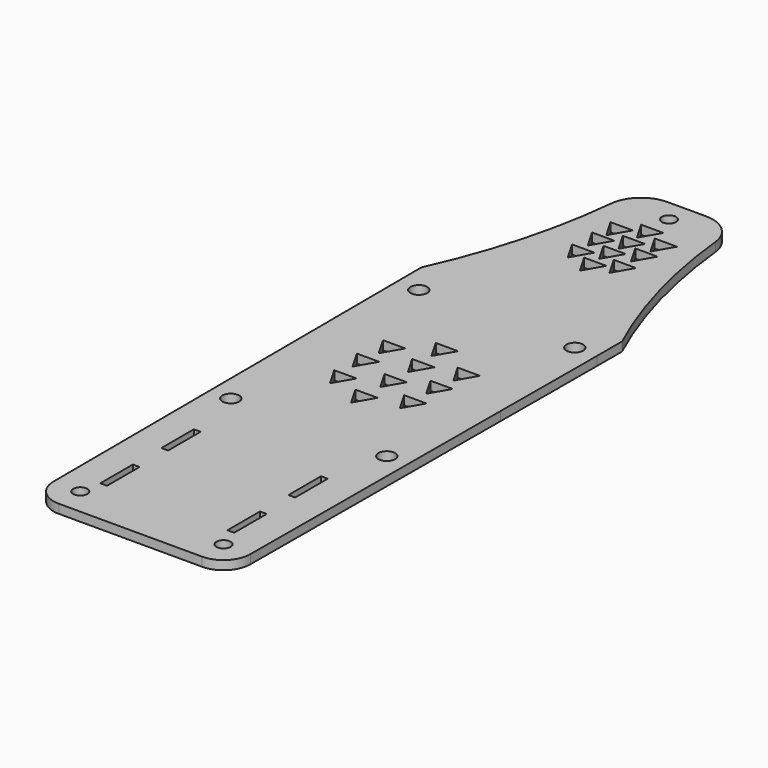
from build123d import *

# Parameters (mm, degrees)
F0_R     = 1.5875
F0_W     = 1.5125
F0_H     = 9.125
F0_R_2   = 1.875
F1_DEPTH = 2


with BuildPart() as f1:
    # F0 (on Top) → F1 (new body)
    with BuildSketch(Plane.XY):
        with BuildLine():
            Line((-8.3077662669, 82.3469734799), (-12.6567107354, 82.3469734799))
            Line((-12.6567107354, 82.3469734799), (-17.0056552038, 82.3469734799))
            ThreePointArc((-17.0056552038, 82.3469734799), (-21.9425943503, 80.450262999), (-24.3396503152, 75.7359230148))
            ThreePointArc((-24.3396503152, 75.7359230148), (-28.1319401622, 55.4595641269), (-35.1567107354, 36.0645959539))
            Line((-35.1567107354, 36.0645959539), (-35.1567107354, 35.3542267511))
            Line((-35.1567107354, 35.3542267511), (-34.7306092033, -67.6578189428))
            ThreePointArc((-34.7306092033, -67.6578189428), (-32.9732498904, -71.9004596299), (-28.7306092033, -73.6578189428))
            Line((-28.7306092033, -73.6578189428), (3.4171877326, -73.6578189428))
            ThreePointArc((3.4171877326, -73.6578189428), (7.6598284197, -71.9004596299), (9.4171877326, -67.6578189428))
            Line((9.4171877326, -67.6578189428), (9.7246083807, 2.1247686199))
            Line((9.7246083807, 2.1247686199), (9.8432892646, 29.0645959539))
            Line((9.8432892646, 29.0645959539), (9.8432892646, 35.3542267511))
            Line((9.8432892646, 35.3542267511), (9.8432892646, 36.0645959539))
            ThreePointArc((9.8432892646, 36.0645959539), (2.8185186915, 55.4595641269), (-0.9737711555, 75.7359230148))
            ThreePointArc((-0.9737711555, 75.7359230148), (-3.3708271204, 80.450262999), (-8.3077662669, 82.3469734799))
        make_face()
        with Locations((-28.7306092033, -67.6578189428)):
            Circle(F0_R, mode=Mode.SUBTRACT)
        with Locations((-27.1615939174, -58.4994030434)):
            Rectangle(F0_W, F0_H, mode=Mode.SUBTRACT)
        with Locations((-27.1615939174, -41.3744030434)):
            Rectangle(F0_W, F0_H, mode=Mode.SUBTRACT)
        with Locations((-30.1567107354, -23.6662209918)):
            Circle(F0_R_2, mode=Mode.SUBTRACT)
        Polygon((-22.7049022828, -3.962064999), (-17.7049022828, -3.962064999), (-20.2049022828, -8.2921920179), align=None, mode=Mode.SUBTRACT)
        Polygon((-23.5629521225, 3.4575584355), (-18.5629521225, 3.4575584355), (-21.0629521225, -0.8725685834), align=None, mode=Mode.SUBTRACT)
        Polygon((-15.23480489, -7.3942718085), (-10.23480489, -7.3942718085), (-12.73480489, -11.7243988275), align=None, mode=Mode.SUBTRACT)
        with Locations((3.4171877326, -67.6578189428)):
            Circle(F0_R, mode=Mode.SUBTRACT)
        with Locations((1.3634060826, -58.4994030434)):
            Rectangle(F0_W, F0_H, mode=Mode.SUBTRACT)
        with Locations((1.3634060826, -41.3744030434)):
            Rectangle(F0_W, F0_H, mode=Mode.SUBTRACT)
        Polygon((-14.9319611404, 0.4291358414), (-9.9319611404, 0.4291358414), (-12.4319611404, -3.9009911775), align=None, mode=Mode.SUBTRACT)
        Polygon((-7.2094976817, -3.709698933), (-2.2094976817, -3.709698933), (-4.7094976817, -8.039825952), align=None, mode=Mode.SUBTRACT)
        Polygon((-7.0580758069, 3.4575584355), (-2.0580758069, 3.4575584355), (-4.5580758069, -0.8725685834), align=None, mode=Mode.SUBTRACT)
        with Locations((4.8432892646, -23.6662209918)):
            Circle(F0_R_2, mode=Mode.SUBTRACT)
        with Locations((-30.1567107354, 29.0645959539)):
            Circle(F0_R_2, mode=Mode.SUBTRACT)
        Polygon((-23.1448143635, 10.267657322), (-18.1448143635, 10.267657322), (-20.6448143635, 5.9375303031), align=None, mode=Mode.SUBTRACT)
        Polygon((-15.2871601198, 15.2332606736), (-10.2871601198, 15.2332606736), (-12.7871601198, 10.9031336547), align=None, mode=Mode.SUBTRACT)
        Polygon((-19.9925371002, 59.3395778543), (-14.9925371002, 59.3395778543), (-17.4925371002, 55.0094508354), align=None, mode=Mode.SUBTRACT)
        Polygon((-15.2093276296, 56.7469392914), (-10.2093276296, 56.7469392914), (-12.7093276296, 52.4168122725), align=None, mode=Mode.SUBTRACT)
        Polygon((-15.3613381002, 62.3649583209), (-10.3613381002, 62.3649583209), (-12.8613381002, 58.034831302), align=None, mode=Mode.SUBTRACT)
        Polygon((-20.0741064349, 65.0715577427), (-15.0741064349, 65.0715577427), (-17.5741064349, 60.7414307238), align=None, mode=Mode.SUBTRACT)
        Polygon((-19.9925371002, 70.1445944501), (-14.9925371002, 70.1445944501), (-17.4925371002, 65.8144674312), align=None, mode=Mode.SUBTRACT)
        Polygon((-15.2171917174, 72.7440145343), (-10.2171917174, 72.7440145343), (-12.7171917174, 68.4138875154), align=None, mode=Mode.SUBTRACT)
        Polygon((-14.7060893391, 7.8873719099), (-9.7060893391, 7.8873719099), (-12.2060893391, 3.557244891), align=None, mode=Mode.SUBTRACT)
        Polygon((-6.4523920331, 10.3219720546), (-1.4523920331, 10.3219720546), (-3.9523920331, 5.9918450356), align=None, mode=Mode.SUBTRACT)
        with Locations((4.8432892646, 29.0645959539)):
            Circle(F0_R_2, mode=Mode.SUBTRACT)
        Polygon((-10.6306696928, 59.3395778543), (-5.6306696928, 59.3395778543), (-8.1306696928, 55.0094508354), align=None, mode=Mode.SUBTRACT)
        Polygon((-15.1065990243, 67.459733436), (-10.1065990243, 67.459733436), (-12.6065990243, 63.1296064171), align=None, mode=Mode.SUBTRACT)
        Polygon((-10.3938269644, 65.0715577427), (-5.3938269644, 65.0715577427), (-7.8938269644, 60.7414307238), align=None, mode=Mode.SUBTRACT)
        Polygon((-10.0930306195, 70.1445944501), (-5.0930306195, 70.1445944501), (-7.5930306195, 65.8144674312), align=None, mode=Mode.SUBTRACT)
        with Locations((-12.6567107354, 77.3469734799)):
            Circle(F0_R, mode=Mode.SUBTRACT)
    extrude(amount=F1_DEPTH)


solid = f1.part
